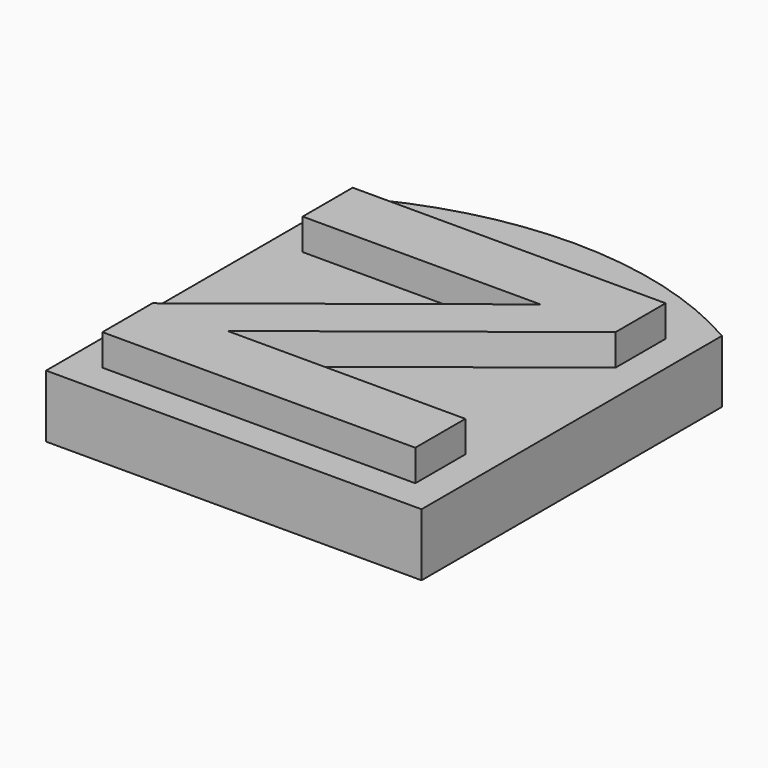
from build123d import *

# Parameters (mm, degrees)
PAD_DEPTH    = 1
PAD001_DEPTH = 0.5


with BuildPart() as part:
    # Sketch → Pad (new body)
    with BuildSketch(Plane.XY):
        with BuildLine():
            Line((3, 3), (3, -3))
            Line((3, -3), (-3, -3))
            Line((-3, -3), (-3, 3))
            ThreePointArc((3, 3), (0, 3.803848), (-3, 3))
        make_face()
    extrude(amount=PAD_DEPTH)

    # Sketch001 → Pad001 (new body)
    with BuildSketch(Plane.XY.offset(1)):
        Polygon((-2.5, 2.5), (-2.5, 1.5), (1.3, 1.5), (-2.5, -1.5), (-2.5, -2.5), (2.5, -2.5), (2.5, -1.5), (-1.3, -1.5), (2.5, 1.5), (2.5, 2.5), align=None)
    extrude(amount=PAD001_DEPTH)


solid = part.part
